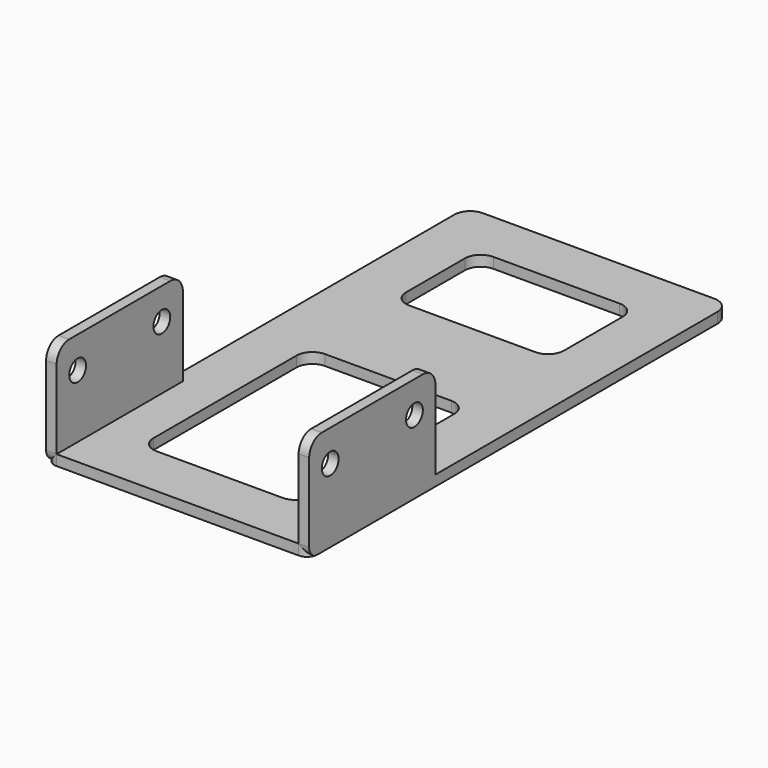
from build123d import *

# Parameters (mm, degrees)
CYLINDER003_R     = 2
CYLINDER003_DEPTH = 10
CYLINDER002_R     = 2
CYLINDER002_DEPTH = 10
BOX007_W          = 2
BOX007_H          = 30
BOX007_DEPTH      = 20
FILLET009_R       = 2
FILLET010_R       = 3
BOX006_W          = 30
BOX006_H          = 20
BOX006_DEPTH      = 2
FILLET008_R       = 3
BOX005_W          = 30
BOX005_H          = 40
BOX005_DEPTH      = 2
FILLET007_R       = 3
BOX004_W          = 50
BOX004_H          = 100
BOX004_DEPTH      = 2
FILLET005_R       = 2
FILLET006_R       = 3
CYLINDER005_R     = 2
CYLINDER005_DEPTH = 10
CYLINDER004_R     = 2
CYLINDER004_DEPTH = 10
BOX008_W          = 2
BOX008_H          = 30
BOX008_DEPTH      = 20
FILLET011_R       = 2
FILLET012_R       = 3


with BuildPart() as cylinder003:
    # Cylinder003 → Cylinder003 (new body)
    with BuildSketch(Plane(origin=(0, 25, 14), x_dir=(0, 0, -1), z_dir=(1, 0, 0))):
        Circle(CYLINDER003_R)
    extrude(amount=CYLINDER003_DEPTH)


with BuildPart() as cylinder002:
    # Cylinder002 → Cylinder002 (new body)
    with BuildSketch(Plane(origin=(0, 5, 14), x_dir=(0, 0, -1), z_dir=(1, 0, 0))):
        Circle(CYLINDER002_R)
    extrude(amount=CYLINDER002_DEPTH)


with BuildPart() as mini_pe_a:
    # Box007 → Box007 (new body)
    with BuildSketch(Plane.XY):
        with Locations((1, 15)):
            Rectangle(BOX007_W, BOX007_H)
    extrude(amount=BOX007_DEPTH)

    # Fillet009
    fillet009_edges = [mini_pe_a.edges().sort_by_distance(p)[0] for p in [
        (1, 0, 0),
        (1, 30, 0),
    ]]
    fillet(fillet009_edges, radius=FILLET009_R)

    # Fillet010
    fillet010_edges = [mini_pe_a.edges().sort_by_distance(p)[0] for p in [
        (1, 0, 20),
        (1, 30, 20),
    ]]
    fillet(fillet010_edges, radius=FILLET010_R)

    # Cut006: cut Cylinder002
    add(cylinder002.part, mode=Mode.SUBTRACT)

    # Cut007: cut Cylinder003
    add(cylinder003.part, mode=Mode.SUBTRACT)


with BuildPart() as forat2:
    # Box006 → Box006 (new body)
    with BuildSketch(Plane.XY):
        with Locations((15, 10)):
            Rectangle(BOX006_W, BOX006_H)
    extrude(amount=BOX006_DEPTH)

    # Fillet008
    fillet008_edges = [forat2.edges().sort_by_distance(p)[0] for p in [
        (0, 0, 1),
        (0, 20, 1),
        (30, 0, 1),
        (30, 20, 1),
    ]]
    fillet(fillet008_edges, radius=FILLET008_R)


with BuildPart() as forat2_1:
    # Fillet008 placement: moved
    add(forat2.part.moved(Location((10, 70, 0))))


with BuildPart() as forat1:
    # Box005 → Box005 (new body)
    with BuildSketch(Plane.XY):
        with Locations((15, 20)):
            Rectangle(BOX005_W, BOX005_H)
    extrude(amount=BOX005_DEPTH)

    # Fillet007
    fillet007_edges = [forat1.edges().sort_by_distance(p)[0] for p in [
        (0, 0, 1),
        (0, 40, 1),
        (30, 0, 1),
        (30, 40, 1),
    ]]
    fillet(fillet007_edges, radius=FILLET007_R)


with BuildPart() as forat1_1:
    # Fillet007 placement: moved
    add(forat1.part.moved(Location((10, 10, 0))))


with BuildPart() as fusion:
    # Box004 → Box004 (new body)
    with BuildSketch(Plane.XY):
        with Locations((25, 50)):
            Rectangle(BOX004_W, BOX004_H)
    extrude(amount=BOX004_DEPTH)

    # Fillet005
    fillet005_edges = [fusion.edges().sort_by_distance(p)[0] for p in [
        (0, 0, 1),
        (50, 0, 1),
    ]]
    fillet(fillet005_edges, radius=FILLET005_R)

    # Fillet006
    fillet006_edges = [fusion.edges().sort_by_distance(p)[0] for p in [
        (0, 100, 1),
        (50, 100, 1),
    ]]
    fillet(fillet006_edges, radius=FILLET006_R)

    # Cut004: cut forat1
    add(forat1_1.part, mode=Mode.SUBTRACT)

    # Cut005: cut forat2
    add(forat2_1.part, mode=Mode.SUBTRACT)

    add(mini_pe_a.part)


with BuildPart() as cylinder005:
    # Cylinder005 → Cylinder005 (new body)
    with BuildSketch(Plane(origin=(0, 25, 14), x_dir=(0, 0, -1), z_dir=(1, 0, 0))):
        Circle(CYLINDER005_R)
    extrude(amount=CYLINDER005_DEPTH)


with BuildPart() as cylinder004:
    # Cylinder004 → Cylinder004 (new body)
    with BuildSketch(Plane(origin=(0, 5, 14), x_dir=(0, 0, -1), z_dir=(1, 0, 0))):
        Circle(CYLINDER004_R)
    extrude(amount=CYLINDER004_DEPTH)


with BuildPart() as pe_a:
    # Box008 → Box008 (new body)
    with BuildSketch(Plane.XY):
        with Locations((1, 15)):
            Rectangle(BOX008_W, BOX008_H)
    extrude(amount=BOX008_DEPTH)

    # Fillet011
    fillet011_edges = [pe_a.edges().sort_by_distance(p)[0] for p in [
        (1, 0, 0),
        (1, 30, 0),
    ]]
    fillet(fillet011_edges, radius=FILLET011_R)

    # Fillet012
    fillet012_edges = [pe_a.edges().sort_by_distance(p)[0] for p in [
        (1, 0, 20),
        (1, 30, 20),
    ]]
    fillet(fillet012_edges, radius=FILLET012_R)

    # Cut008: cut Cylinder004
    add(cylinder004.part, mode=Mode.SUBTRACT)

    # Cut009: cut Cylinder005
    add(cylinder005.part, mode=Mode.SUBTRACT)


with BuildPart() as pe_a_1:
    # Cut009 placement: moved
    add(pe_a.part.moved(Location((48, 0, 0))))

    # Fusion001: union Fusion
    add(fusion.part)


solid = pe_a_1.part
